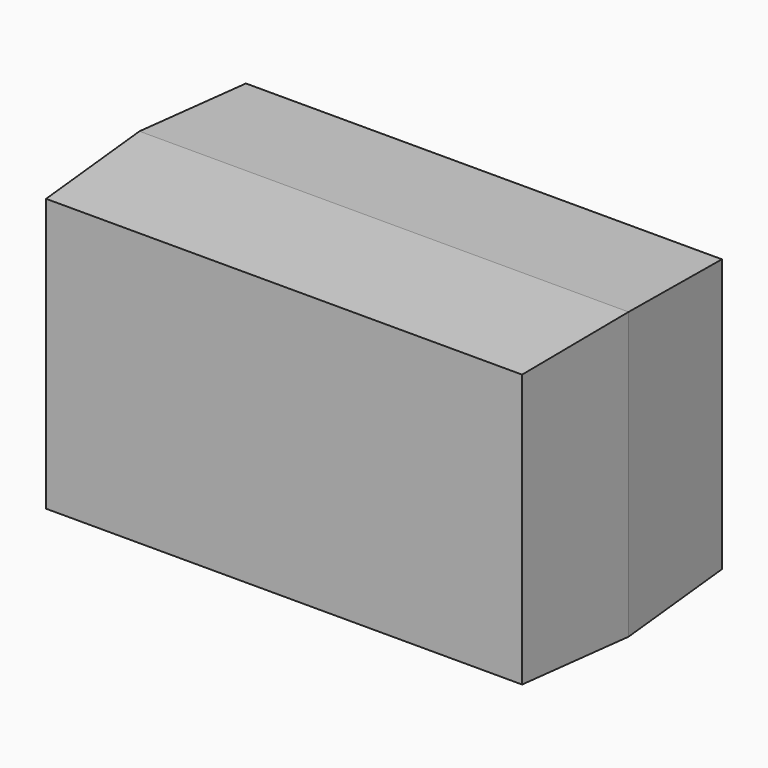
from build123d import *

# Parameters (mm, degrees)
F0_W     = 99.4678363204
F0_H     = 58.1482574344
F1_DEPTH = 25.4
F1_TAPER = 3


with BuildPart() as f1:
    # F0 (on Front) → F1 (new body, symmetric)
    with BuildSketch(Plane.XZ):
        with Locations((49.7339181602, 29.0741287172)):
            Rectangle(F0_W, F0_H)
    extrude(amount=F1_DEPTH, both=True, taper=F1_TAPER)


solid = f1.part
